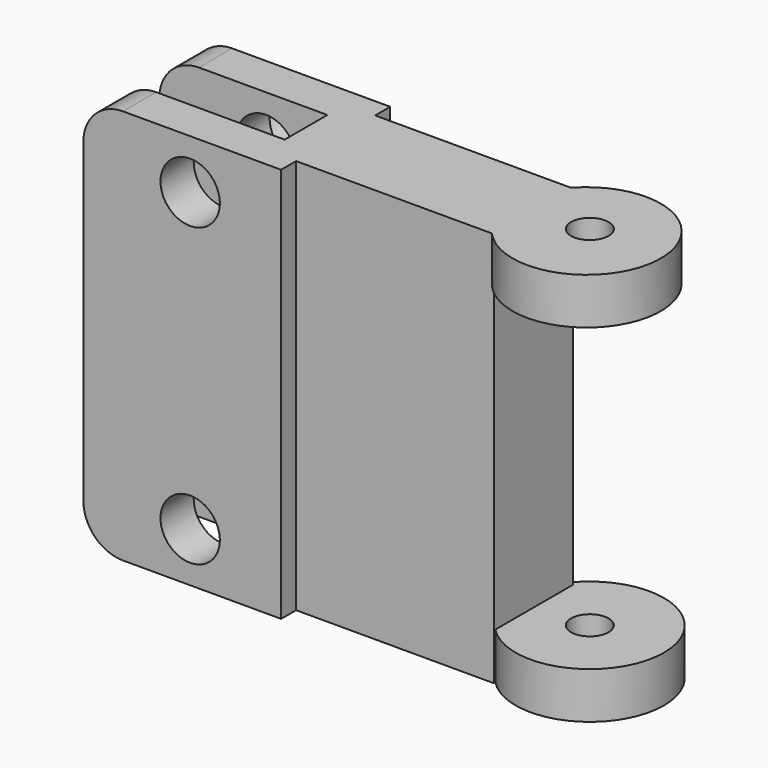
from build123d import *

# Parameters (mm, degrees)
F1_DEPTH  = 13.8
F2_W      = 5.4
F2_H      = 40
F3_DEPTH  = 17
F4_R      = 3
F5_DEPTH  = 25
F6_R      = 3
F7_DEPTH  = 6
F8_R      = 4.5
F9_DEPTH  = 2.5
F10_R     = 4
F11_W     = 10
F11_H     = 40
F12_DEPTH = 20
F13_R     = 7.5
F14_DEPTH = 4.7
F15_R     = 7.5
F16_DEPTH = 4.7
F17_R     = 1.9
F18_DEPTH = 70


with BuildPart() as f1:
    # F0 (on Front) → F1 (new body)
    with BuildSketch(Plane.XZ):
        Polygon((11.3874197267, 30.6198454252), (-3.6125802733, 30.6198454252), (-3.6125802733, -9.3801545748), (11.3874197267, -9.3801545748), (16.3874197267, -9.3801545748), (16.3874197267, 5.6198454252), (16.3874197267, 25.6198454252), (16.3874197267, 30.6198454252), align=None)
    extrude(amount=F1_DEPTH)

    # F2 (on face) → F3 (cut)
    with BuildSketch(Plane(origin=(-3.6125802733, 0, 0), x_dir=(0, -1, 0), z_dir=(-1, 0, 0))):
        with Locations((6.9, 10.6198454252)):
            Rectangle(F2_W, F2_H)
    extrude(amount=-F3_DEPTH, mode=Mode.SUBTRACT)

    # F4 (on face) → F5 (cut)
    with BuildSketch(Plane(origin=(0, 0, 0), x_dir=(-1, 0, 0), z_dir=(0, 1, 0))):
        with Locations((-7.1874197267, 25.6198454252)):
            Circle(F4_R)
        with Locations((-7.1874197267, -4.3801545748)):
            Circle(F4_R)
    extrude(amount=-F5_DEPTH, mode=Mode.SUBTRACT)

    # F6 (on face) → F7 (join)
    with BuildSketch(Plane.XZ):
        with Locations((0.9593699942, 19.8055244982)):
            Circle(F6_R)
    extrude(amount=-F7_DEPTH)

    # F8 (on face) → F9 (join)
    with BuildSketch(Plane(origin=(0, 6, 0), x_dir=(-1, 0, 0), z_dir=(0, 1, 0))):
        with Locations((-0.9593699942, 19.8055244982)):
            Circle(F8_R)
    extrude(amount=F9_DEPTH)

    # F10
    f10_edges = [f1.edges().sort_by_distance(p)[0] for p in [
        (-3.61258, -2.1, 30.619845),
        (-3.61258, -11.7, 30.619845),
        (-3.61258, -2.1, -9.380155),
        (-3.61258, -11.7, -9.380155),
    ]]
    fillet(f10_edges, radius=F10_R)

    # F11 (on face) → F12 (join)
    with BuildSketch(Plane.YZ.offset(16.3874197267)):
        with Locations((-6.9, 10.6198454252)):
            Rectangle(F11_W, F11_H)
    extrude(amount=F12_DEPTH)

    # F13 (on face) → F14 (join)
    with BuildSketch(Plane.XY.offset(30.6198454252)):
        with Locations((41.7828261852, -6.9)):
            Circle(F13_R)
    extrude(amount=-F14_DEPTH)

    # F15 (on face) → F16 (join)
    with BuildSketch(Plane(origin=(0, 0, -9.3801545748), x_dir=(1, 0, 0), z_dir=(0, 0, -1))):
        with Locations((41.7574755847, 6.4750881866)):
            Circle(F15_R)
    extrude(amount=-F16_DEPTH)

    # F17 (on face) → F18 (cut)
    with BuildSketch(Plane(origin=(0, 0, -9.3801545748), x_dir=(1, 0, 0), z_dir=(0, 0, -1))):
        with Locations((41.7574755847, 6.4750881866)):
            Circle(F17_R)
    extrude(amount=-F18_DEPTH, mode=Mode.SUBTRACT)


solid = f1.part
